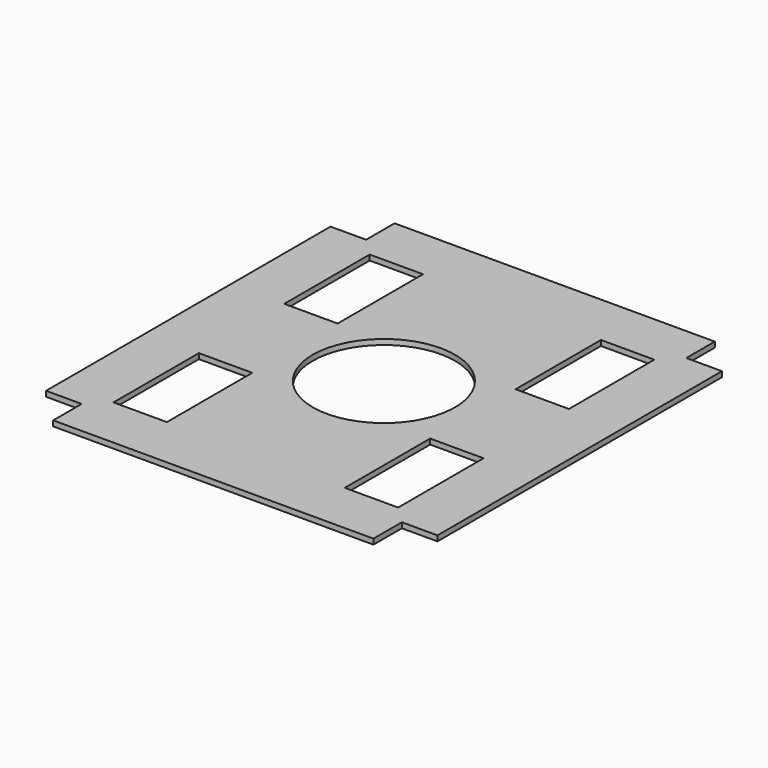
from build123d import *

# Parameters (mm, degrees)
F0_W     = 360
F0_H     = 0.278708
F0_H_2   = 399.721292
F0_W_2   = 60
F0_H_3   = 120
F0_W_3   = 40
F0_H_4   = 40
F0_H_5   = 39.721292
F1_DEPTH = 6
F2_D     = 160


with BuildPart() as f1:
    # F0 (on Top) → F1 (new body)
    with BuildSketch(Plane.XY):
        with Locations((0, -199.860646)):
            Rectangle(F0_W, F0_H)
        with Locations((0, 0.139354)):
            Rectangle(F0_W, F0_H_2)
        with Locations((-130, -120)):
            Rectangle(F0_W_2, F0_H_3, mode=Mode.SUBTRACT)
        with Locations((130, -120)):
            Rectangle(F0_W_2, F0_H_3, mode=Mode.SUBTRACT)
        with Locations((-130, 120)):
            Rectangle(F0_W_2, F0_H_3, mode=Mode.SUBTRACT)
        with Locations((130, 120)):
            Rectangle(F0_W_2, F0_H_3, mode=Mode.SUBTRACT)
        with Locations((-200, 0.139354)):
            Rectangle(F0_W_3, F0_H_2)
        with Locations((0, 220)):
            Rectangle(F0_W, F0_H_4)
        with Locations((0, -219.860646)):
            Rectangle(F0_W, F0_H_5)
        with Locations((200, 0.139354)):
            Rectangle(F0_W_3, F0_H_2)
    extrude(amount=F1_DEPTH)

    # F2 (through all)
    with Locations(Plane(origin=(0, 0, 0), x_dir=(1, 0, 0), z_dir=(0, 0, -1))):
        with Locations((0, 0)):
            Hole(F2_D / 2)


solid = f1.part
